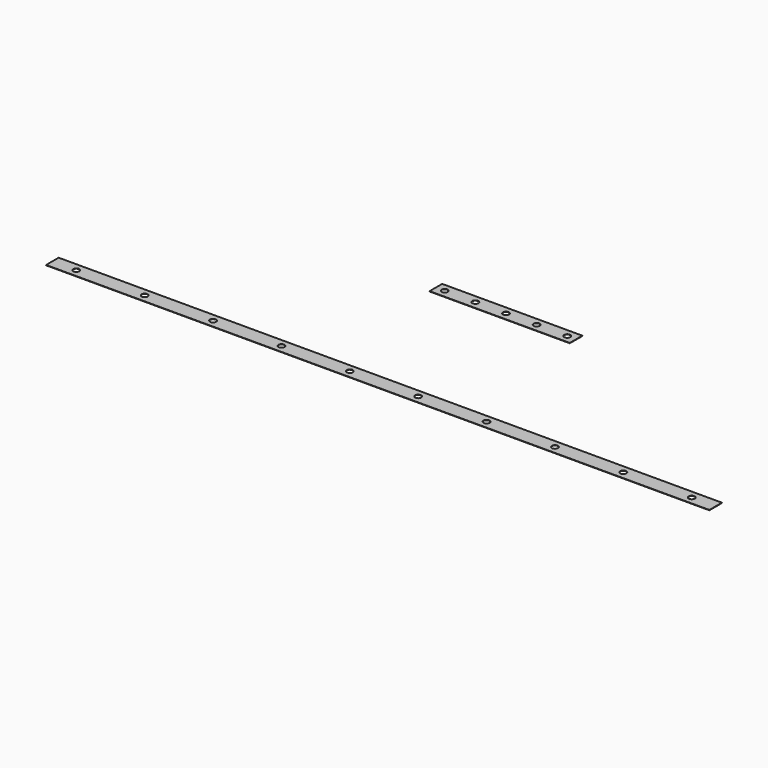
from build123d import *

# Parameters (mm, degrees)
F0_W     = 205
F0_H     = 23
F0_R     = 4.5
F0_W_2   = 970
F1_DEPTH = 0.5


with BuildPart() as f1:
    # F0 (on Top) → F1 (new body)
    with BuildSketch(Plane.XY):
        with Locations((0, 111.5)):
            Rectangle(F0_W, F0_H)
        with Locations((-89.6, 111.5)):
            Circle(F0_R, mode=Mode.SUBTRACT)
        with Locations((-44.8, 111.5)):
            Circle(F0_R, mode=Mode.SUBTRACT)
        with Locations((0, 111.5)):
            Circle(F0_R, mode=Mode.SUBTRACT)
        with Locations((44.8, 111.5)):
            Circle(F0_R, mode=Mode.SUBTRACT)
        with Locations((89.6, 111.5)):
            Circle(F0_R, mode=Mode.SUBTRACT)
        with Locations((0, -111.5)):
            Rectangle(F0_W_2, F0_H)
        with Locations((-450, -111.5)):
            Circle(F0_R, mode=Mode.SUBTRACT)
        with Locations((-350, -111.5)):
            Circle(F0_R, mode=Mode.SUBTRACT)
        with Locations((-250, -111.5)):
            Circle(F0_R, mode=Mode.SUBTRACT)
        with Locations((-150, -111.5)):
            Circle(F0_R, mode=Mode.SUBTRACT)
        with Locations((-50, -111.5)):
            Circle(F0_R, mode=Mode.SUBTRACT)
        with Locations((50, -111.5)):
            Circle(F0_R, mode=Mode.SUBTRACT)
        with Locations((150, -111.5)):
            Circle(F0_R, mode=Mode.SUBTRACT)
        with Locations((250, -111.5)):
            Circle(F0_R, mode=Mode.SUBTRACT)
        with Locations((350, -111.5)):
            Circle(F0_R, mode=Mode.SUBTRACT)
        with Locations((450, -111.5)):
            Circle(F0_R, mode=Mode.SUBTRACT)
    extrude(amount=F1_DEPTH)


solid = f1.part
